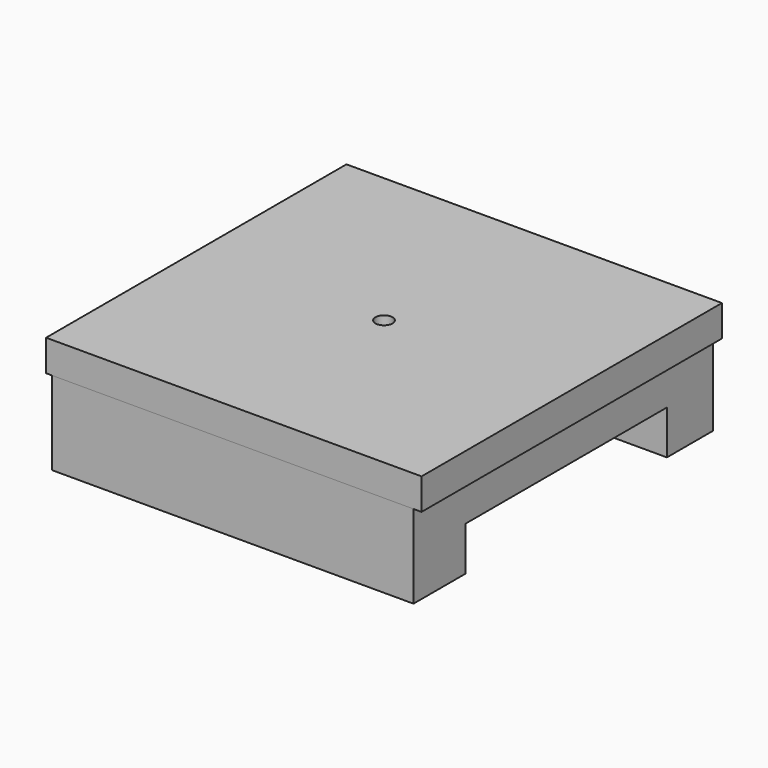
from build123d import *

# Parameters (mm, degrees)
F0_W          = 1219.2
F0_H          = 1219.2
F0_R          = 27.541912
F1_DEPTH      = 101.6
F3_DEPTH      = 581.66
F3_DEPTH_BACK = 591.82


with BuildPart() as f1:
    # F0 (on Top) → F1 (new body)
    with BuildSketch(Plane.XY):
        Rectangle(F0_W, F0_H)
        Circle(F0_R, mode=Mode.SUBTRACT)
    extrude(amount=F1_DEPTH)

    # F2 (on Right) → F3 (join, two sides)
    with BuildSketch(Plane.YZ) as f3_sk:
        Polygon((608.82026, -272.358894), (608.82026, 0), (-607.331693, 0), (-607.331693, -272.358894), (-396.70077, -272.358894), (-396.70077, -129.45731), (421.261966, -129.45731), (421.261966, -272.358894), align=None)
    extrude(amount=F3_DEPTH)
    extrude(f3_sk.sketch, amount=-F3_DEPTH_BACK)


solid = f1.part
